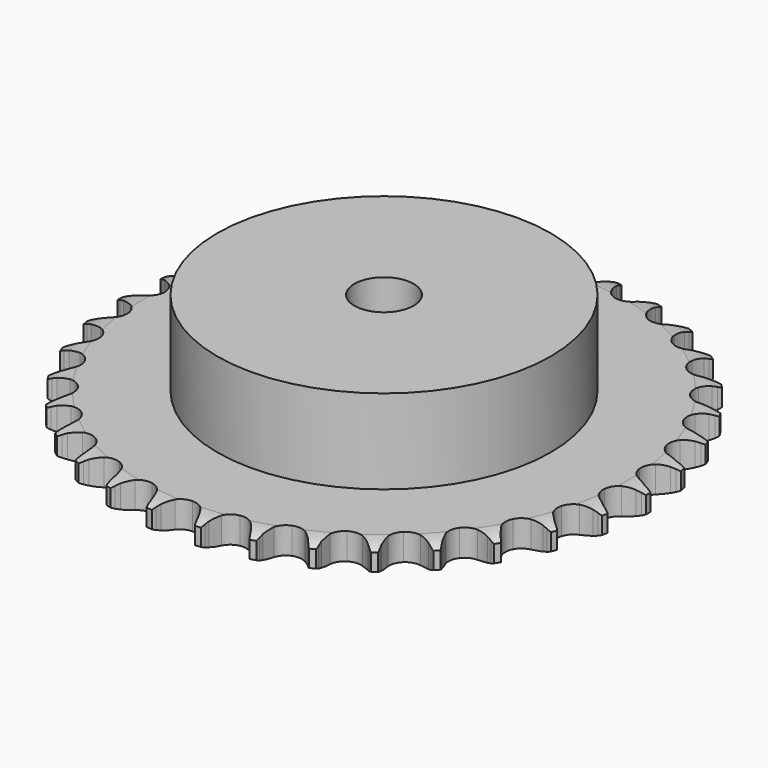
from build123d import *

# Parameters (mm, degrees)
PAD_DEPTH         = 7.2
SKETCH001_R       = 45
PAD001_DEPTH      = 30
SKETCH002_R       = 8
POCKET_DEPTH      = 0.001
POCKET_DEPTH_BACK = 30.001


with BuildPart() as part:
    # Sprocket → Pad (new body)
    with BuildSketch(Plane.XY):
        with BuildLine():
            ThreePointArc((-6.701282, 72.318351), (-5.941532, 71.286594), (-5.385277, 70.13233))
            Line((-5.385277, 70.13233), (-4.970115, 69.016696))
            ThreePointArc((-4.970115, 69.016696), (-4.312459, 67.5736), (-3.456247, 66.238708))
            ThreePointArc((-3.456247, 66.238708), (-1.932989, 64.96387), (0, 64.506617))
            ThreePointArc((0, 64.506617), (1.932989, 64.96387), (3.456247, 66.238708))
            ThreePointArc((3.456247, 66.238708), (4.312459, 67.5736), (4.970115, 69.016696))
            Line((4.970115, 69.016696), (5.385277, 70.13233))
            ThreePointArc((5.385277, 70.13233), (5.941532, 71.286594), (6.701282, 72.318351))
            ThreePointArc((6.701282, 72.318351), (7.258511, 71.164557), (7.5932, 69.927736))
            Line((7.5932, 69.927736), (7.796295, 68.754812))
            ThreePointArc((7.796295, 68.754812), (8.177586, 67.215444), (8.773933, 65.745952))
            ThreePointArc((8.773933, 65.745952), (10.037004, 64.212923), (11.85306, 63.408269))
            ThreePointArc((11.85306, 63.408269), (13.837156, 63.502551), (15.568728, 64.475784))
            Line((15.568728, 64.475784), (17.567274, 66.928299))
            ThreePointArc((17.567274, 66.928299), (17.860159, 67.446684), (18.180364, 67.948652))
            ThreePointArc((18.180364, 67.948652), (18.939243, 68.98105), (19.875642, 69.855636))
            ThreePointArc((19.875642, 69.855636), (20.211374, 68.619098), (20.313099, 67.341837))
            Line((20.313099, 67.341837), (20.297212, 66.151565))
            ThreePointArc((20.297212, 66.151565), (20.389152, 64.568346), (20.705327, 63.014296))
            ThreePointArc((20.705327, 63.014296), (21.665198, 61.275281), (23.302478, 60.150629))
            ThreePointArc((23.302478, 60.150629), (25.270115, 59.878729), (27.151035, 60.517215))
            Line((27.151035, 60.517215), (29.566201, 62.56074))
            ThreePointArc((29.566201, 62.56074), (29.949351, 63.01648), (30.356341, 63.451064))
            ThreePointArc((30.356341, 63.451064), (31.292001, 64.32644), (32.373161, 65.014072))
            ThreePointArc((32.373161, 65.014072), (32.475963, 63.736897), (32.34126, 62.462692))
            Line((32.34126, 62.462692), (32.106931, 61.295606))
            ThreePointArc((32.106931, 61.295606), (31.90639, 59.72245), (31.931626, 58.136764))
            ThreePointArc((31.931626, 58.136764), (32.555611, 56.250983), (33.958358, 54.844631))
            ThreePointArc((33.958358, 54.844631), (35.842531, 54.215808), (37.808746, 54.497805))
            Line((37.808746, 54.497805), (40.558286, 56.062749))
            ThreePointArc((40.558286, 56.062749), (41.018654, 56.440326), (41.498569, 56.792726))
            ThreePointArc((41.498569, 56.792726), (42.579148, 57.48127), (43.768251, 57.958531))
            ThreePointArc((43.768251, 57.958531), (43.634622, 56.684212), (43.268078, 55.456455))
            Line((43.268078, 55.456455), (42.823288, 54.352299))
            ThreePointArc((42.823288, 54.352299), (42.337095, 52.842778), (42.070532, 51.279454))
            ThreePointArc((42.070532, 51.279454), (42.33738, 49.311125), (43.457827, 47.670965))
            ThreePointArc((43.457827, 47.670965), (45.194372, 46.706633), (47.178926, 46.622537))
            Line((47.178926, 46.622537), (50.169207, 47.655609))
            ThreePointArc((50.169207, 47.655609), (50.691117, 47.942164), (51.227613, 48.20038))
            ThreePointArc((51.227613, 48.20038), (52.416313, 48.678644), (53.672865, 48.929282))
            ThreePointArc((53.672865, 48.929282), (53.307357, 47.701215), (52.721453, 46.561715))
            Line((52.721453, 46.561715), (52.081349, 45.558089))
            ThreePointArc((52.081349, 45.558089), (51.32606, 44.163608), (50.776776, 42.675884))
            ThreePointArc((50.776776, 42.675884), (50.677402, 40.692037), (51.477391, 38.873921))
            ThreePointArc((51.477391, 38.873921), (53.007173, 37.60692), (54.942484, 37.159595))
            Line((54.942484, 37.159595), (58.071676, 37.625614))
            ThreePointArc((58.071676, 37.625614), (58.637354, 37.811389), (59.212162, 37.966628))
            ThreePointArc((59.212162, 37.966628), (60.468503, 38.218326), (61.749715, 38.233805))
            ThreePointArc((61.749715, 38.233805), (61.164773, 37.09381), (60.379463, 36.081371))
            Line((60.379463, 36.081371), (59.565842, 35.212453))
            ThreePointArc((59.565842, 35.212453), (58.567178, 33.9805), (57.753878, 32.619038))
            ThreePointArc((57.753878, 32.619038), (57.291665, 30.687229), (57.743955, 28.753073))
            ThreePointArc((57.743955, 28.753073), (59.014879, 27.226548), (60.835041, 26.431227))
            Line((60.835041, 26.431227), (63.996584, 26.314324))
            ThreePointArc((63.996584, 26.314324), (64.586766, 26.392993), (65.180312, 26.439968))
            ThreePointArc((65.180312, 26.439968), (66.46151, 26.456528), (67.723752, 26.236321))
            ThreePointArc((67.723752, 26.236321), (66.939296, 25.22322), (65.981323, 24.37232))
            Line((65.981323, 24.37232), (65.021891, 23.6677))
            ThreePointArc((65.021891, 23.6677), (63.813861, 22.640227), (62.764241, 21.45139))
            ThreePointArc((62.764241, 21.45139), (61.954929, 19.637405), (62.044118, 17.653074))
            ThreePointArc((62.044118, 17.653074), (63.012904, 15.919009), (64.655935, 14.802776))
            Line((64.655935, 14.802776), (67.742165, 14.106931))
            ThreePointArc((67.742165, 14.106931), (68.336753, 14.075815), (68.928825, 14.012926))
            ThreePointArc((68.928825, 14.012926), (70.191251, 13.793785), (71.391537, 13.345391))
            ThreePointArc((71.391537, 13.345391), (70.434282, 12.493683), (69.336267, 11.833299))
            Line((69.336267, 11.833299), (68.263699, 11.316971))
            ThreePointArc((68.263699, 11.316971), (66.88744, 10.528968), (65.637243, 9.55324))
            ThreePointArc((65.637243, 9.55324), (64.508392, 7.918853), (64.231443, 5.95192))
            ThreePointArc((64.231443, 5.95192), (64.865099, 4.069367), (66.275047, 2.670234))
            Line((66.275047, 2.670234), (69.180867, 1.419144))
            ThreePointArc((69.180867, 1.419144), (69.759614, 1.279302), (70.330049, 1.108691))
            ThreePointArc((70.330049, 1.108691), (71.530713, 0.661311), (72.62817, 0))
            ThreePointArc((72.62817, 0), (71.530713, -0.661311), (70.330049, -1.108691))
            Line((70.330049, -1.108691), (69.180867, -1.419144))
            ThreePointArc((69.180867, -1.419144), (67.683247, -1.940843), (66.275047, -2.670234))
            ThreePointArc((66.275047, -2.670234), (64.865099, -4.069367), (64.231443, -5.95192))
            ThreePointArc((64.231443, -5.95192), (64.508392, -7.918853), (65.637243, -9.55324))
            Line((65.637243, -9.55324), (68.263699, -11.316971))
            ThreePointArc((68.263699, -11.316971), (68.806895, -11.560776), (69.336267, -11.833299))
            ThreePointArc((69.336267, -11.833299), (70.434282, -12.493683), (71.391537, -13.345391))
            ThreePointArc((71.391537, -13.345391), (70.191251, -13.793785), (68.928825, -14.012926))
            Line((68.928825, -14.012926), (67.742165, -14.106931))
            ThreePointArc((67.742165, -14.106931), (66.174182, -14.34456), (64.655935, -14.802776))
            ThreePointArc((64.655935, -14.802776), (63.012904, -15.919009), (62.044118, -17.653074))
            ThreePointArc((62.044118, -17.653074), (61.954929, -19.637405), (62.764241, -21.45139))
            Line((62.764241, -21.45139), (65.021891, -23.6677))
            ThreePointArc((65.021891, -23.6677), (65.51104, -24.007165), (65.981323, -24.37232))
            ThreePointArc((65.981323, -24.37232), (66.939296, -25.22322), (67.723752, -26.236321))
            ThreePointArc((67.723752, -26.236321), (66.46151, -26.456528), (65.180312, -26.439968))
            Line((65.180312, -26.439968), (63.996584, -26.314324))
            ThreePointArc((63.996584, -26.314324), (62.411635, -26.259791), (60.835041, -26.431227))
            ThreePointArc((60.835041, -26.431227), (59.014879, -27.226548), (57.743955, -28.753073))
            ThreePointArc((57.743955, -28.753073), (57.291665, -30.687229), (57.753878, -32.619038))
            Line((57.753878, -32.619038), (59.565842, -35.212453))
            ThreePointArc((59.565842, -35.212453), (59.984285, -35.63602), (60.379463, -36.081371))
            ThreePointArc((60.379463, -36.081371), (61.164773, -37.09381), (61.749715, -38.233805))
            ThreePointArc((61.749715, -38.233805), (60.468503, -38.218326), (59.212162, -37.966628))
            Line((59.212162, -37.966628), (58.071676, -37.625614))
            ThreePointArc((58.071676, -37.625614), (56.523734, -37.280776), (54.942484, -37.159595))
            ThreePointArc((54.942484, -37.159595), (53.007173, -37.60692), (51.477391, -38.873921))
            ThreePointArc((51.477391, -38.873921), (50.677402, -40.692037), (50.776776, -42.675884))
            Line((50.776776, -42.675884), (52.081349, -45.558089))
            ThreePointArc((52.081349, -45.558089), (52.414837, -46.051332), (52.721453, -46.561715))
            ThreePointArc((52.721453, -46.561715), (53.307357, -47.701215), (53.672865, -48.929282))
            ThreePointArc((53.672865, -48.929282), (52.416313, -48.678644), (51.227613, -48.20038))
            Line((51.227613, -48.20038), (50.169207, -47.655609))
            ThreePointArc((50.169207, -47.655609), (48.710986, -47.032209), (47.178926, -46.622537))
            ThreePointArc((47.178926, -46.622537), (45.194372, -46.706633), (43.457827, -47.670965))
            ThreePointArc((43.457827, -47.670965), (42.33738, -49.311125), (42.070532, -51.279454))
            Line((42.070532, -51.279454), (42.823288, -54.352299))
            ThreePointArc((42.823288, -54.352299), (43.060465, -54.898422), (43.268078, -55.456455))
            ThreePointArc((43.268078, -55.456455), (43.634622, -56.684212), (43.768251, -57.958531))
            ThreePointArc((43.768251, -57.958531), (42.579148, -57.48127), (41.498569, -56.792726))
            Line((41.498569, -56.792726), (40.558286, -56.062749))
            ThreePointArc((40.558286, -56.062749), (39.239443, -55.182016), (37.808746, -54.497805))
            ThreePointArc((37.808746, -54.497805), (35.842531, -54.215808), (33.958358, -54.844631))
            ThreePointArc((33.958358, -54.844631), (32.555611, -56.250983), (31.931626, -58.136764))
            Line((31.931626, -58.136764), (32.106931, -61.295606))
            ThreePointArc((32.106931, -61.295606), (32.23972, -61.876012), (32.34126, -62.462692))
            ThreePointArc((32.34126, -62.462692), (32.475963, -63.736897), (32.373161, -65.014072))
            ThreePointArc((32.373161, -65.014072), (31.292001, -64.32644), (30.356341, -63.451064))
            Line((30.356341, -63.451064), (29.566201, -62.56074))
            ThreePointArc((29.566201, -62.56074), (28.431648, -61.452666), (27.151035, -60.517215))
            ThreePointArc((27.151035, -60.517215), (25.270115, -59.878729), (23.302478, -60.150629))
            ThreePointArc((23.302478, -60.150629), (21.665198, -61.275281), (20.705327, -63.014296))
            Line((20.705327, -63.014296), (20.297212, -66.151565))
            ThreePointArc((20.297212, -66.151565), (20.32109, -66.746488), (20.313099, -67.341837))
            ThreePointArc((20.313099, -67.341837), (20.211374, -68.619098), (19.875642, -69.855636))
            ThreePointArc((19.875642, -69.855636), (18.939243, -68.98105), (18.180364, -67.948652))
            Line((18.180364, -67.948652), (17.567274, -66.928299))
            ThreePointArc((17.567274, -66.928299), (16.655647, -65.630619), (15.568728, -64.475784))
            ThreePointArc((15.568728, -64.475784), (13.837156, -63.502551), (11.85306, -63.408269))
            ThreePointArc((11.85306, -63.408269), (10.037004, -64.212923), (8.773933, -65.745952))
            Line((8.773933, -65.745952), (7.796295, -68.754812))
            ThreePointArc((7.796295, -68.754812), (7.71045, -69.343993), (7.5932, -69.927736))
            ThreePointArc((7.5932, -69.927736), (7.258511, -71.164557), (6.701282, -72.318351))
            ThreePointArc((6.701282, -72.318351), (5.941532, -71.286594), (5.385277, -70.13233))
            Line((5.385277, -70.13233), (4.970115, -69.016696))
            ThreePointArc((4.970115, -69.016696), (4.312459, -67.5736), (3.456247, -66.238708))
            ThreePointArc((3.456247, -66.238708), (1.932989, -64.96387), (0, -64.506617))
            ThreePointArc((0, -64.506617), (-1.932989, -64.96387), (-3.456247, -66.238708))
            Line((-3.456247, -66.238708), (-4.970115, -69.016696))
            ThreePointArc((-4.970115, -69.016696), (-5.16276, -69.580071), (-5.385277, -70.13233))
            ThreePointArc((-5.385277, -70.13233), (-5.941532, -71.286594), (-6.701282, -72.318351))
            ThreePointArc((-6.701282, -72.318351), (-7.258511, -71.164557), (-7.5932, -69.927736))
            Line((-7.5932, -69.927736), (-7.796295, -68.754812))
            ThreePointArc((-7.796295, -68.754812), (-8.177586, -67.215444), (-8.773933, -65.745952))
            ThreePointArc((-8.773933, -65.745952), (-10.037004, -64.212923), (-11.85306, -63.408269))
            ThreePointArc((-11.85306, -63.408269), (-13.837156, -63.502551), (-15.568728, -64.475784))
            Line((-15.568728, -64.475784), (-17.567274, -66.928299))
            ThreePointArc((-17.567274, -66.928299), (-17.860159, -67.446684), (-18.180364, -67.948652))
            ThreePointArc((-18.180364, -67.948652), (-18.939243, -68.98105), (-19.875642, -69.855636))
            ThreePointArc((-19.875642, -69.855636), (-20.211374, -68.619098), (-20.313099, -67.341837))
            Line((-20.313099, -67.341837), (-20.297212, -66.151565))
            ThreePointArc((-20.297212, -66.151565), (-20.389152, -64.568346), (-20.705327, -63.014296))
            ThreePointArc((-20.705327, -63.014296), (-21.665198, -61.275281), (-23.302478, -60.150629))
            ThreePointArc((-23.302478, -60.150629), (-25.270115, -59.878729), (-27.151035, -60.517215))
            Line((-27.151035, -60.517215), (-29.566201, -62.56074))
            ThreePointArc((-29.566201, -62.56074), (-29.949351, -63.01648), (-30.356341, -63.451064))
            ThreePointArc((-30.356341, -63.451064), (-31.292001, -64.32644), (-32.373161, -65.014072))
            ThreePointArc((-32.373161, -65.014072), (-32.475963, -63.736897), (-32.34126, -62.462692))
            Line((-32.34126, -62.462692), (-32.106931, -61.295606))
            ThreePointArc((-32.106931, -61.295606), (-31.90639, -59.72245), (-31.931626, -58.136764))
            ThreePointArc((-31.931626, -58.136764), (-32.555611, -56.250983), (-33.958358, -54.844631))
            ThreePointArc((-33.958358, -54.844631), (-35.842531, -54.215808), (-37.808746, -54.497805))
            Line((-37.808746, -54.497805), (-40.558286, -56.062749))
            ThreePointArc((-40.558286, -56.062749), (-41.018654, -56.440326), (-41.498569, -56.792726))
            ThreePointArc((-41.498569, -56.792726), (-42.579148, -57.48127), (-43.768251, -57.958531))
            ThreePointArc((-43.768251, -57.958531), (-43.634622, -56.684212), (-43.268078, -55.456455))
            Line((-43.268078, -55.456455), (-42.823288, -54.352299))
            ThreePointArc((-42.823288, -54.352299), (-42.337095, -52.842778), (-42.070532, -51.279454))
            ThreePointArc((-42.070532, -51.279454), (-42.33738, -49.311125), (-43.457827, -47.670965))
            ThreePointArc((-43.457827, -47.670965), (-45.194372, -46.706633), (-47.178926, -46.622537))
            Line((-47.178926, -46.622537), (-50.169207, -47.655609))
            ThreePointArc((-50.169207, -47.655609), (-50.691117, -47.942164), (-51.227613, -48.20038))
            ThreePointArc((-51.227613, -48.20038), (-52.416313, -48.678644), (-53.672865, -48.929282))
            ThreePointArc((-53.672865, -48.929282), (-53.307357, -47.701215), (-52.721453, -46.561715))
            Line((-52.721453, -46.561715), (-52.081349, -45.558089))
            ThreePointArc((-52.081349, -45.558089), (-51.32606, -44.163608), (-50.776776, -42.675884))
            ThreePointArc((-50.776776, -42.675884), (-50.677402, -40.692037), (-51.477391, -38.873921))
            ThreePointArc((-51.477391, -38.873921), (-53.007173, -37.60692), (-54.942484, -37.159595))
            Line((-54.942484, -37.159595), (-58.071676, -37.625614))
            ThreePointArc((-58.071676, -37.625614), (-58.637354, -37.811389), (-59.212162, -37.966628))
            ThreePointArc((-59.212162, -37.966628), (-60.468503, -38.218326), (-61.749715, -38.233805))
            ThreePointArc((-61.749715, -38.233805), (-61.164773, -37.09381), (-60.379463, -36.081371))
            Line((-60.379463, -36.081371), (-59.565842, -35.212453))
            ThreePointArc((-59.565842, -35.212453), (-58.567178, -33.9805), (-57.753878, -32.619038))
            ThreePointArc((-57.753878, -32.619038), (-57.291665, -30.687229), (-57.743955, -28.753073))
            ThreePointArc((-57.743955, -28.753073), (-59.014879, -27.226548), (-60.835041, -26.431227))
            Line((-60.835041, -26.431227), (-63.996584, -26.314324))
            ThreePointArc((-63.996584, -26.314324), (-64.586766, -26.392993), (-65.180312, -26.439968))
            ThreePointArc((-65.180312, -26.439968), (-66.46151, -26.456528), (-67.723752, -26.236321))
            ThreePointArc((-67.723752, -26.236321), (-66.939296, -25.22322), (-65.981323, -24.37232))
            Line((-65.981323, -24.37232), (-65.021891, -23.6677))
            ThreePointArc((-65.021891, -23.6677), (-63.813861, -22.640227), (-62.764241, -21.45139))
            ThreePointArc((-62.764241, -21.45139), (-61.954929, -19.637405), (-62.044118, -17.653074))
            ThreePointArc((-62.044118, -17.653074), (-63.012904, -15.919009), (-64.655935, -14.802776))
            Line((-64.655935, -14.802776), (-67.742165, -14.106931))
            ThreePointArc((-67.742165, -14.106931), (-68.336753, -14.075815), (-68.928825, -14.012926))
            ThreePointArc((-68.928825, -14.012926), (-70.191251, -13.793785), (-71.391537, -13.345391))
            ThreePointArc((-71.391537, -13.345391), (-70.434282, -12.493683), (-69.336267, -11.833299))
            Line((-69.336267, -11.833299), (-68.263699, -11.316971))
            ThreePointArc((-68.263699, -11.316971), (-66.88744, -10.528968), (-65.637243, -9.55324))
            ThreePointArc((-65.637243, -9.55324), (-64.508392, -7.918853), (-64.231443, -5.95192))
            ThreePointArc((-64.231443, -5.95192), (-64.865099, -4.069367), (-66.275047, -2.670234))
            Line((-66.275047, -2.670234), (-69.180867, -1.419144))
            ThreePointArc((-69.180867, -1.419144), (-69.759614, -1.279302), (-70.330049, -1.108691))
            ThreePointArc((-70.330049, -1.108691), (-71.530713, -0.661311), (-72.62817, 0))
            ThreePointArc((-72.62817, 0), (-71.530713, 0.661311), (-70.330049, 1.108691))
            Line((-70.330049, 1.108691), (-69.180867, 1.419144))
            ThreePointArc((-69.180867, 1.419144), (-67.683247, 1.940843), (-66.275047, 2.670234))
            ThreePointArc((-66.275047, 2.670234), (-64.865099, 4.069367), (-64.231443, 5.95192))
            ThreePointArc((-64.231443, 5.95192), (-64.508392, 7.918853), (-65.637243, 9.55324))
            Line((-65.637243, 9.55324), (-68.263699, 11.316971))
            ThreePointArc((-68.263699, 11.316971), (-68.806895, 11.560776), (-69.336267, 11.833299))
            ThreePointArc((-69.336267, 11.833299), (-70.434282, 12.493683), (-71.391537, 13.345391))
            ThreePointArc((-71.391537, 13.345391), (-70.191251, 13.793785), (-68.928825, 14.012926))
            Line((-68.928825, 14.012926), (-67.742165, 14.106931))
            ThreePointArc((-67.742165, 14.106931), (-66.174182, 14.34456), (-64.655935, 14.802776))
            ThreePointArc((-64.655935, 14.802776), (-63.012904, 15.919009), (-62.044118, 17.653074))
            ThreePointArc((-62.044118, 17.653074), (-61.954929, 19.637405), (-62.764241, 21.45139))
            Line((-62.764241, 21.45139), (-65.021891, 23.6677))
            ThreePointArc((-65.021891, 23.6677), (-65.51104, 24.007165), (-65.981323, 24.37232))
            ThreePointArc((-65.981323, 24.37232), (-66.939296, 25.22322), (-67.723752, 26.236321))
            ThreePointArc((-67.723752, 26.236321), (-66.46151, 26.456528), (-65.180312, 26.439968))
            Line((-65.180312, 26.439968), (-63.996584, 26.314324))
            ThreePointArc((-63.996584, 26.314324), (-62.411635, 26.259791), (-60.835041, 26.431227))
            ThreePointArc((-60.835041, 26.431227), (-59.014879, 27.226548), (-57.743955, 28.753073))
            ThreePointArc((-57.743955, 28.753073), (-57.291665, 30.687229), (-57.753878, 32.619038))
            Line((-57.753878, 32.619038), (-59.565842, 35.212453))
            ThreePointArc((-59.565842, 35.212453), (-59.984285, 35.63602), (-60.379463, 36.081371))
            ThreePointArc((-60.379463, 36.081371), (-61.164773, 37.09381), (-61.749715, 38.233805))
            ThreePointArc((-61.749715, 38.233805), (-60.468503, 38.218326), (-59.212162, 37.966628))
            Line((-59.212162, 37.966628), (-58.071676, 37.625614))
            ThreePointArc((-58.071676, 37.625614), (-56.523734, 37.280776), (-54.942484, 37.159595))
            ThreePointArc((-54.942484, 37.159595), (-53.007173, 37.60692), (-51.477391, 38.873921))
            ThreePointArc((-51.477391, 38.873921), (-50.677402, 40.692037), (-50.776776, 42.675884))
            Line((-50.776776, 42.675884), (-52.081349, 45.558089))
            ThreePointArc((-52.081349, 45.558089), (-52.414837, 46.051332), (-52.721453, 46.561715))
            ThreePointArc((-52.721453, 46.561715), (-53.307357, 47.701215), (-53.672865, 48.929282))
            ThreePointArc((-53.672865, 48.929282), (-52.416313, 48.678644), (-51.227613, 48.20038))
            Line((-51.227613, 48.20038), (-50.169207, 47.655609))
            ThreePointArc((-50.169207, 47.655609), (-48.710986, 47.032209), (-47.178926, 46.622537))
            ThreePointArc((-47.178926, 46.622537), (-45.194372, 46.706633), (-43.457827, 47.670965))
            ThreePointArc((-43.457827, 47.670965), (-42.33738, 49.311125), (-42.070532, 51.279454))
            Line((-42.070532, 51.279454), (-42.823288, 54.352299))
            ThreePointArc((-42.823288, 54.352299), (-43.060465, 54.898422), (-43.268078, 55.456455))
            ThreePointArc((-43.268078, 55.456455), (-43.634622, 56.684212), (-43.768251, 57.958531))
            ThreePointArc((-43.768251, 57.958531), (-42.579148, 57.48127), (-41.498569, 56.792726))
            Line((-41.498569, 56.792726), (-40.558286, 56.062749))
            ThreePointArc((-40.558286, 56.062749), (-39.239443, 55.182016), (-37.808746, 54.497805))
            ThreePointArc((-37.808746, 54.497805), (-35.842531, 54.215808), (-33.958358, 54.844631))
            ThreePointArc((-33.958358, 54.844631), (-32.555611, 56.250983), (-31.931626, 58.136764))
            Line((-31.931626, 58.136764), (-32.106931, 61.295606))
            ThreePointArc((-32.106931, 61.295606), (-32.23972, 61.876012), (-32.34126, 62.462692))
            ThreePointArc((-32.34126, 62.462692), (-32.475963, 63.736897), (-32.373161, 65.014072))
            ThreePointArc((-32.373161, 65.014072), (-31.292001, 64.32644), (-30.356341, 63.451064))
            Line((-30.356341, 63.451064), (-29.566201, 62.56074))
            ThreePointArc((-29.566201, 62.56074), (-28.431648, 61.452666), (-27.151035, 60.517215))
            ThreePointArc((-27.151035, 60.517215), (-25.270115, 59.878729), (-23.302478, 60.150629))
            ThreePointArc((-23.302478, 60.150629), (-21.665198, 61.275281), (-20.705327, 63.014296))
            Line((-20.705327, 63.014296), (-20.297212, 66.151565))
            ThreePointArc((-20.297212, 66.151565), (-20.32109, 66.746488), (-20.313099, 67.341837))
            ThreePointArc((-20.313099, 67.341837), (-20.211374, 68.619098), (-19.875642, 69.855636))
            ThreePointArc((-19.875642, 69.855636), (-18.939243, 68.98105), (-18.180364, 67.948652))
            Line((-18.180364, 67.948652), (-17.567274, 66.928299))
            ThreePointArc((-17.567274, 66.928299), (-16.655647, 65.630619), (-15.568728, 64.475784))
            ThreePointArc((-15.568728, 64.475784), (-13.837156, 63.502551), (-11.85306, 63.408269))
            ThreePointArc((-11.85306, 63.408269), (-10.037004, 64.212923), (-8.773933, 65.745952))
            Line((-8.773933, 65.745952), (-7.796295, 68.754812))
            ThreePointArc((-7.796295, 68.754812), (-7.71045, 69.343993), (-7.5932, 69.927736))
            ThreePointArc((-7.5932, 69.927736), (-7.258511, 71.164557), (-6.701282, 72.318351))
        make_face()
    extrude(amount=PAD_DEPTH)

    # Sketch → Groove (revolve, cut)
    with BuildSketch(Plane.XZ):
        with BuildLine():
            Line((65.633431, 0), (71.3, 0))
            Line((76.966569, 0), (71.3, 0))
            Line((76.966569, 7.2), (76.966569, 0))
            Line((71.3, 7.2), (76.966569, 7.2))
            Line((65.633431, 7.2), (71.3, 7.2))
            ThreePointArc((71.3, 5.9), (68.54032, 6.870833), (65.633431, 7.2))
            Line((71.3, 1.3), (71.3, 5.9))
            ThreePointArc((65.633431, 0), (68.54032, 0.329167), (71.3, 1.3))
        make_face()
    revolve(axis=Axis((0, 0, 0), (0, 0, 1)), mode=Mode.SUBTRACT)

    # Sketch001 → Pad001 (join)
    with BuildSketch(Plane.XY):
        Circle(SKETCH001_R)
    extrude(amount=PAD001_DEPTH)

    # Sketch002 → Pocket (cut, two sides)
    with BuildSketch(Plane.XY) as pocket_sk:
        Circle(SKETCH002_R)
    extrude(amount=-POCKET_DEPTH, mode=Mode.SUBTRACT)
    extrude(pocket_sk.sketch, amount=POCKET_DEPTH_BACK, mode=Mode.SUBTRACT)


solid = part.part
